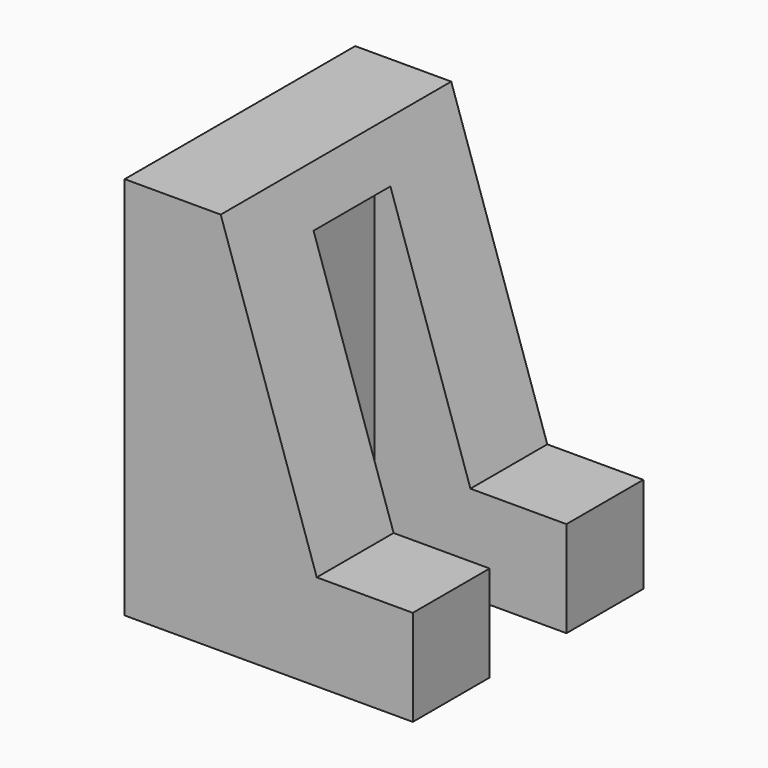
from build123d import *

# Parameters (mm, degrees)
F1_DEPTH = 76.2
F2_W     = 50.8
F2_H     = 25.4
F3_DEPTH = 88.9


with BuildPart() as f1:
    # F0 (on Front) → F1 (new body)
    with BuildSketch(Plane.XZ):
        Polygon((25.4, 101.6), (0, 101.6), (0, 0), (76.2, 0), (76.2, 25.4), (50.8, 25.4), align=None)
    extrude(amount=F1_DEPTH)

    # F2 (on Top) → F3 (cut)
    with BuildSketch(Plane.XY):
        with Locations((50.8, -38.1)):
            Rectangle(F2_W, F2_H)
    extrude(amount=F3_DEPTH, mode=Mode.SUBTRACT)


solid = f1.part
